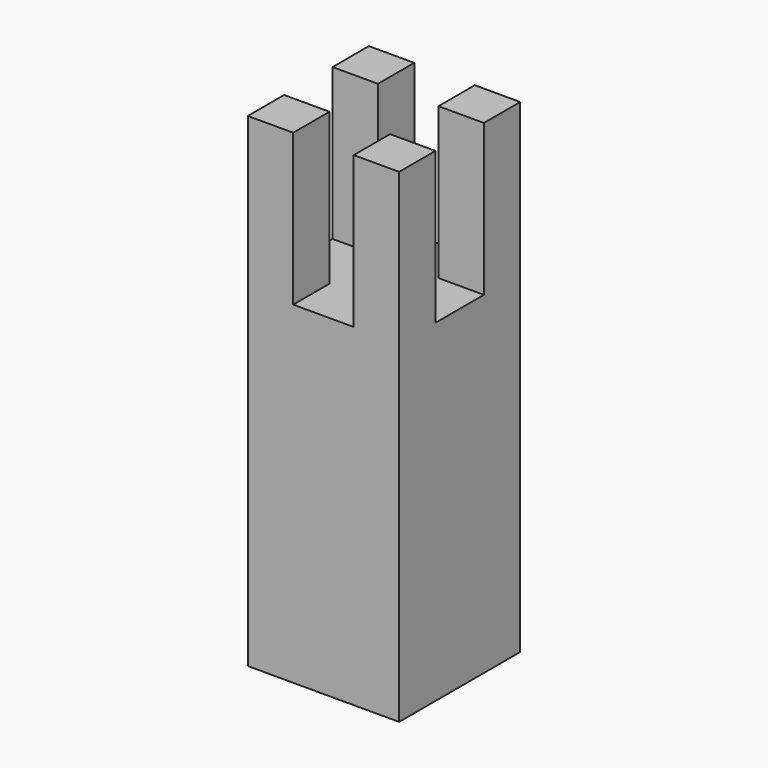
from build123d import *

# Parameters (mm, degrees)
F0_W     = 95.25
F0_H     = 95.25
F2_DEPTH = 304.8
F3_START = 209.55
F1_W     = 28.575
F1_H     = 38.1
F1_W_2   = 38.1
F1_H_2   = 28.575
F3_DEPTH = 95.25


with BuildPart() as f2:
    # F0 (on Top) → F2 (new body)
    with BuildSketch(Plane.XY):
        with Locations((47.625, 47.625)):
            Rectangle(F0_W, F0_H)
    extrude(amount=F2_DEPTH)

    # F1 (on Top) → F3 (cut)
    with BuildSketch(Plane.XY.offset(F3_START)):
        with Locations((14.2875, 47.625)):
            Rectangle(F1_W, F1_H)
        with Locations((47.625, 47.625)):
            Rectangle(F1_W_2, F1_H)
        with Locations((80.9625, 47.625)):
            Rectangle(F1_W, F1_H)
        with Locations((47.625, 80.9625)):
            Rectangle(F1_W_2, F1_H_2)
        with Locations((47.625, 14.2875)):
            Rectangle(F1_W_2, F1_H_2)
    extrude(amount=F3_DEPTH, mode=Mode.SUBTRACT)


solid = f2.part
